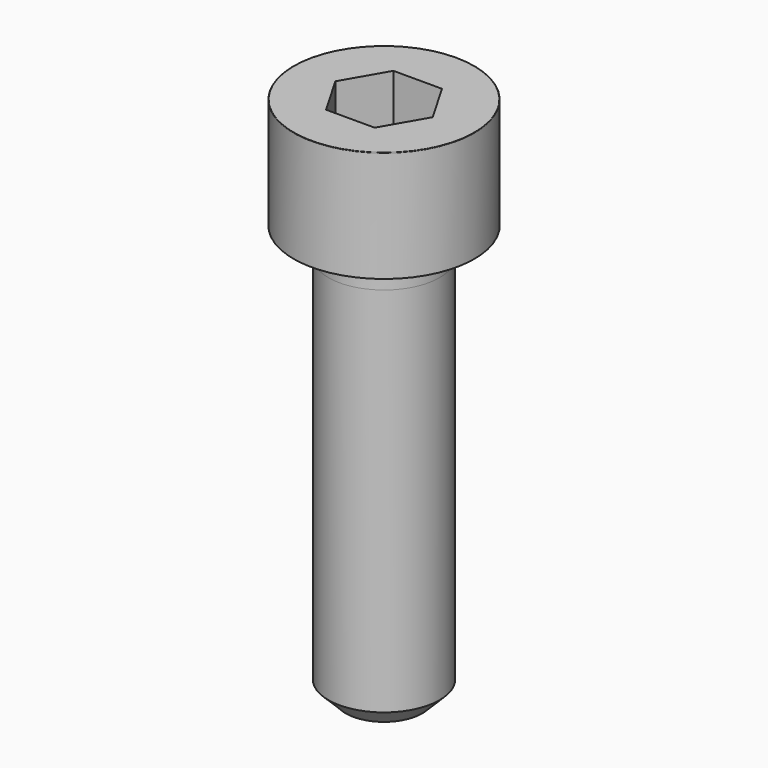
from build123d import *

# Parameters (mm, degrees)
POCKET_DEPTH = 6.06


with BuildPart() as part:
    # Sketch → Revolve (revolve)
    with BuildSketch(Plane.YZ):
        with BuildLine():
            Line((3.999, 0), (6.5, 0))
            Line((6.5, 0), (6.5, 7.97229))
            ThreePointArc((6.5, 7.97229), (6.491884, 7.991884), (6.47229, 8))
            Line((6.47229, 8), (0, 8))
            Line((0, -30), (0, 8))
            Line((2.75, -30), (0, -30))
            Line((4, -28.75), (2.75, -30))
            Line((4, -2), (4, -28.75))
            Line((3.999, 0), (4, -2))
        make_face()
    revolve(axis=Axis((0, 0, 0), (0, 0, 1)))

    # Sketch001 → Pocket (cut)
    with BuildSketch(Plane.XY.offset(8)):
        Polygon((3.498743, 0), (1.749371, 3.03), (-1.749371, 3.03), (-3.498743, 0), (-1.749371, -3.03), (1.749371, -3.03), align=None)
    extrude(amount=-POCKET_DEPTH, mode=Mode.SUBTRACT)


solid = part.part
